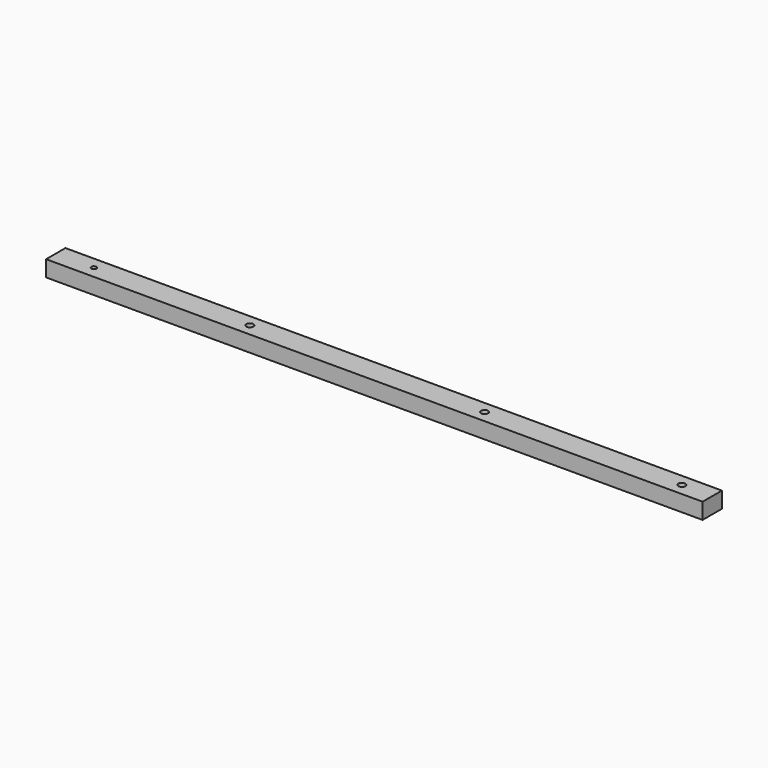
from build123d import *

# Parameters (mm, degrees)
F0_W     = 421
F0_H     = 15.5
F0_R     = 1.65
F0_R_2   = 2.25
F1_DEPTH = 10.3


with BuildPart() as f1:
    # F0 (on Top) → F1 (new body)
    with BuildSketch(Plane.XY):
        Rectangle(F0_W, F0_H)
        with Locations((-186, 0)):
            Circle(F0_R, mode=Mode.SUBTRACT)
        with Locations((-86, 0)):
            Circle(F0_R_2, mode=Mode.SUBTRACT)
        with Locations((64.5, 0)):
            Circle(F0_R_2, mode=Mode.SUBTRACT)
        with Locations((191, 0)):
            Circle(F0_R_2, mode=Mode.SUBTRACT)
    extrude(amount=F1_DEPTH)


solid = f1.part
